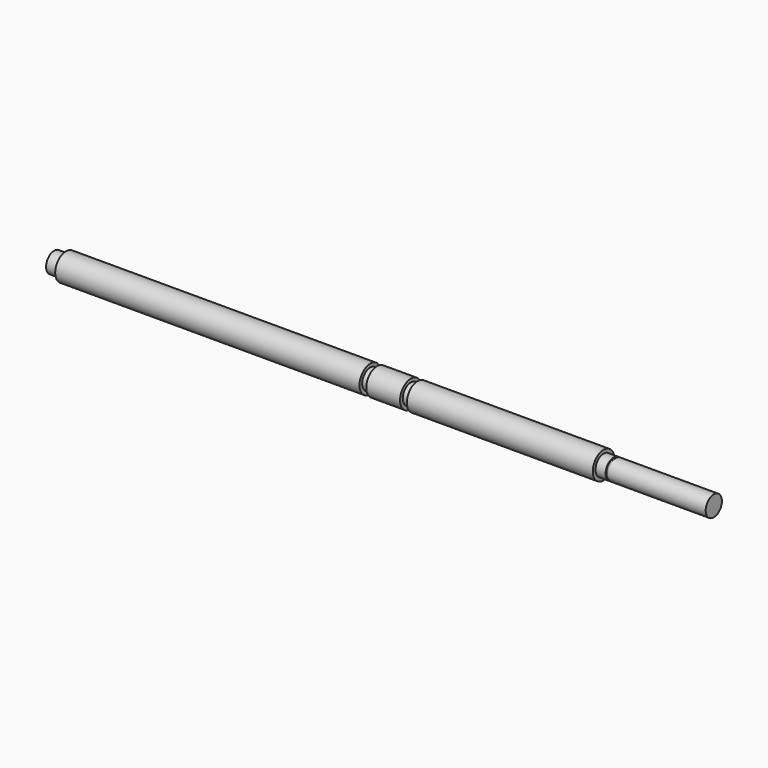
from build123d import *


with BuildPart() as f1:
    # F0 (on Front) → F1 (revolve)
    with BuildSketch(Plane.XZ):
        Polygon((0, 6), (0, 0), (390.2, 0), (390.2, 6), (332.2, 6), (332.2, 5.5), (331, 5.5), (331, 6), (325, 6), (325, 8), (215, 8), (215, 6), (211, 6), (211, 8), (191, 8), (191, 6), (187, 6), (187, 8), (7, 8), (7, 6), align=None)
    revolve(axis=Axis((195.1, 0, 0), (-1, 0, 0)))


solid = f1.part
